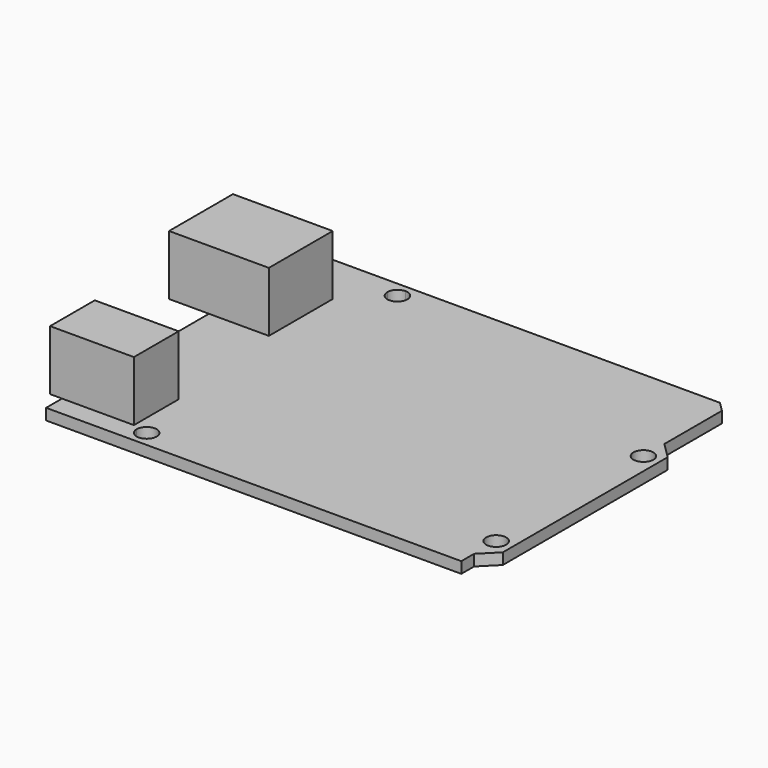
from build123d import *

# Parameters (mm, degrees)
F0_R     = 1.5875
F1_DEPTH = 1.778
F2_W     = 13.335
F2_H     = 8.89
F3_DEPTH = 9.525


with BuildPart() as f1:
    # F0 (on Top) → F1 (new body)
    with BuildSketch(Plane.XY):
        with BuildLine():
            Line((-50.8, 43.943732), (-66.04, 43.943732))
            Line((-66.04, 43.943732), (-66.04, 41.403732))
            Line((-66.04, 41.403732), (-52.3875, 41.403732))
            ThreePointArc((-52.3875, 41.403732), (-51.922532, 42.526264), (-50.8, 42.991232))
            Line((-50.8, 42.991232), (-50.8, 43.943732))
        make_face()
        with BuildLine():
            Line((-52.3875, 41.403732), (-66.04, 41.403732))
            Line((-66.04, 41.403732), (-66.04, -6.856268))
            Line((-66.04, -6.856268), (-53.6575, -6.856268))
            ThreePointArc((-53.6575, -6.856268), (-52.07, -5.268768), (-50.4825, -6.856268))
            ThreePointArc((-50.4825, -6.856268), (-50.947468, -7.9788), (-52.07, -8.443768))
            Line((-52.07, -8.443768), (-52.07, -9.396268))
            Line((-52.07, -9.396268), (0, -9.396268))
            Line((0, -9.396268), (0, -6.856268))
            Line((0, -6.856268), (2.54, -4.316268))
            Line((2.54, -4.316268), (2.54, 28.449732))
            Line((2.54, 28.449732), (0, 30.989732))
            Line((0, 30.989732), (0, 42.419732))
            Line((0, 42.419732), (-1.524, 43.943732))
            Line((-1.524, 43.943732), (-50.8, 43.943732))
            Line((-50.8, 43.943732), (-50.8, 42.991232))
            ThreePointArc((-50.8, 42.991232), (-49.677468, 42.526264), (-49.2125, 41.403732))
            ThreePointArc((-49.2125, 41.403732), (-50.8, 39.816232), (-52.3875, 41.403732))
        make_face()
        with Locations((0, -2.470437)):
            Circle(F0_R, mode=Mode.SUBTRACT)
        with Locations((0, 26.817046)):
            Circle(F0_R, mode=Mode.SUBTRACT)
        with BuildLine():
            Line((-53.6575, -6.856268), (-66.04, -6.856268))
            Line((-66.04, -6.856268), (-66.04, -9.396268))
            Line((-66.04, -9.396268), (-52.07, -9.396268))
            Line((-52.07, -9.396268), (-52.07, -8.443768))
            ThreePointArc((-52.07, -8.443768), (-53.192532, -7.9788), (-53.6575, -6.856268))
        make_face()
    extrude(amount=F1_DEPTH)


with BuildPart() as f3:
    # F2 (on face) → F3 (new body)
    with BuildSketch(Plane.XY.offset(1.778)):
        with Locations((-61.2775, -1.776268)):
            Rectangle(F2_W, F2_H)
        Polygon((-72.39, 22.988732), (-66.04, 22.988732), (-56.515, 22.988732), (-56.515, 35.688732), (-72.39, 35.688732), align=None)
    extrude(amount=F3_DEPTH)


solid = Compound([f1.part, f3.part])
